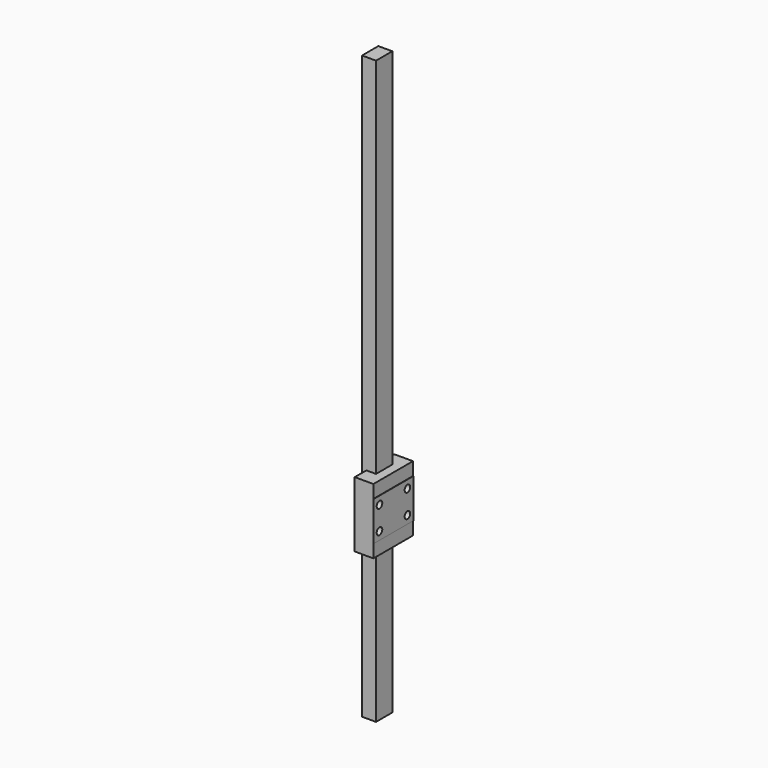
from build123d import *

# Parameters (mm, degrees)
SKETCH034_W             = 7
SKETCH034_H             = 4.8
PAD015_DEPTH            = 200
SKETCH035_W             = 17
SKETCH035_H             = 22.5
PAD016_DEPTH            = 6.5
SKETCH036_W             = 17
SKETCH036_H             = 4.5
POCKET019_DEPTH         = 0.1
SKETCH037_R             = 1.2
POCKET020_DEPTH         = 2.5
BODY008_ROLL_ANGLE      = 90
BODY008_PLACEMENT_ANGLE = 90


with BuildPart() as part:
    # Sketch034 → Pad015 (new body)
    with BuildSketch(Plane.XZ):
        with Locations((3.5, 2.4)):
            Rectangle(SKETCH034_W, SKETCH034_H)
    extrude(amount=-PAD015_DEPTH)

    # Sketch035 (on Face1 of Pad015) → Pad016 (join)
    with BuildSketch(Plane(origin=(0, 0, 1.5), x_dir=(-1, 0, 0), z_dir=(0, 0, 1))):
        with Locations((-3.5, -63.75)):
            Rectangle(SKETCH035_W, SKETCH035_H)
    extrude(amount=PAD016_DEPTH)

    # Sketch036 (on Face13 of Pad016) → Pocket019 (cut)
    with BuildSketch(Plane(origin=(0, 0, 8), x_dir=(-1, 0, 0), z_dir=(0, 0, 1))):
        with Locations((-3.5, -54.75)):
            Rectangle(SKETCH036_W, SKETCH036_H)
        with Locations((-3.5, -72.75)):
            Rectangle(SKETCH036_W, SKETCH036_H)
    extrude(amount=-POCKET019_DEPTH, mode=Mode.SUBTRACT)

    # Sketch037 (on Face17 of Pocket019) → Pocket020 (cut)
    with BuildSketch(Plane(origin=(0, 0, 8), x_dir=(-1, 0, 0), z_dir=(0, 0, 1))):
        with Locations((-9.5, -59.75)):
            Circle(SKETCH037_R)
        with Locations((2.5, -59.75)):
            Circle(SKETCH037_R)
        with Locations((2.5, -67.75)):
            Circle(SKETCH037_R)
        with Locations((-9.5, -67.75)):
            Circle(SKETCH037_R)
    extrude(amount=-POCKET020_DEPTH, mode=Mode.SUBTRACT)


with BuildPart() as part_1:
    # Body008 roll: moved
    add(part.part.rotate(Axis((0, 0, 0), (1, 0, 0)), BODY008_ROLL_ANGLE))


with BuildPart() as part_2:
    # Body008 placement: moved
    add(part_1.part.moved(Location((-109, 85.5, -111))).rotate(Axis((-109, 85.5, -111), (0, 0, 1)), BODY008_PLACEMENT_ANGLE))


solid = part_2.part
